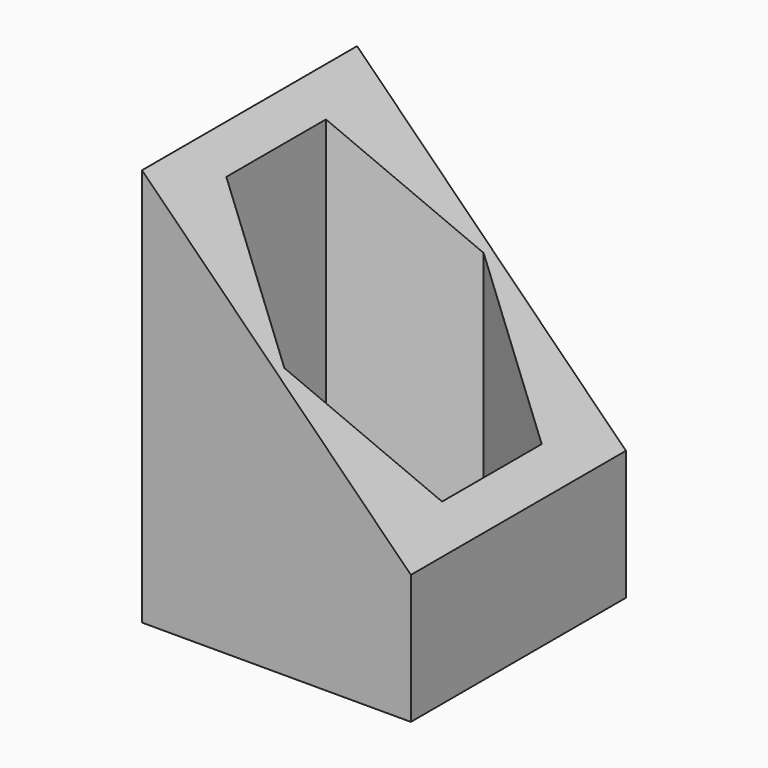
from build123d import *

# Parameters (mm, degrees)
SKETCH_W             = 8.1
SKETCH_H             = 8.1
SKETCH_R             = 1.75
PAD_DEPTH            = 12
POCKET_DEPTH         = 10.801
POCKET001_DEPTH      = 4.051
POCKET001_DEPTH_BACK = -4.051


with BuildPart() as part:
    # Sketch → Pad (new body)
    with BuildSketch(Plane.XY):
        Rectangle(SKETCH_W, SKETCH_H)
        Circle(SKETCH_R, mode=Mode.SUBTRACT)
    extrude(amount=PAD_DEPTH)

    # Sketch001 → Pocket (cut, through all)
    with BuildSketch(Plane.XY.offset(1.2)):
        Polygon((0, 3.752777), (-3.25, 1.876388), (-3.25, -1.876388), (0, -3.752777), (3.25, -1.876388), (3.25, 1.876388), align=None)
    extrude(amount=POCKET_DEPTH, mode=Mode.SUBTRACT)

    # Sketch002 → Pocket001 (cut, two sides)
    with BuildSketch(Plane.XZ) as pocket001_sk:
        Polygon((4.05, 12), (-4.05, 12), (4.05, 3.9), align=None)
    extrude(amount=-POCKET001_DEPTH, mode=Mode.SUBTRACT)
    extrude(pocket001_sk.sketch, amount=-POCKET001_DEPTH_BACK, mode=Mode.SUBTRACT)


solid = part.part
